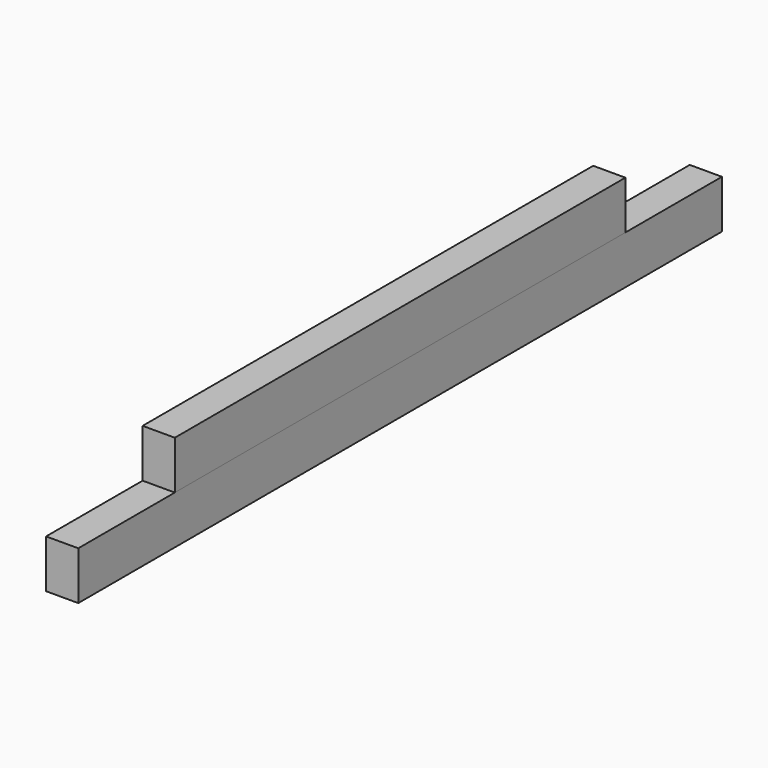
from build123d import *

# Parameters (mm, degrees)
F0_W     = 40
F0_H     = 1000
F1_DEPTH = 60
F2_W     = 40
F2_H     = 700
F3_DEPTH = 60


with BuildPart() as f1:
    # F0 (on Top) → F1 (new body)
    with BuildSketch(Plane.XY):
        Rectangle(F0_W, F0_H)
    extrude(amount=F1_DEPTH)


with BuildPart() as f3:
    # F2 (on face) → F3 (new body)
    with BuildSketch(Plane.XY.offset(60)):
        Rectangle(F2_W, F2_H)
    extrude(amount=F3_DEPTH)


solid = Compound([f1.part, f3.part])
